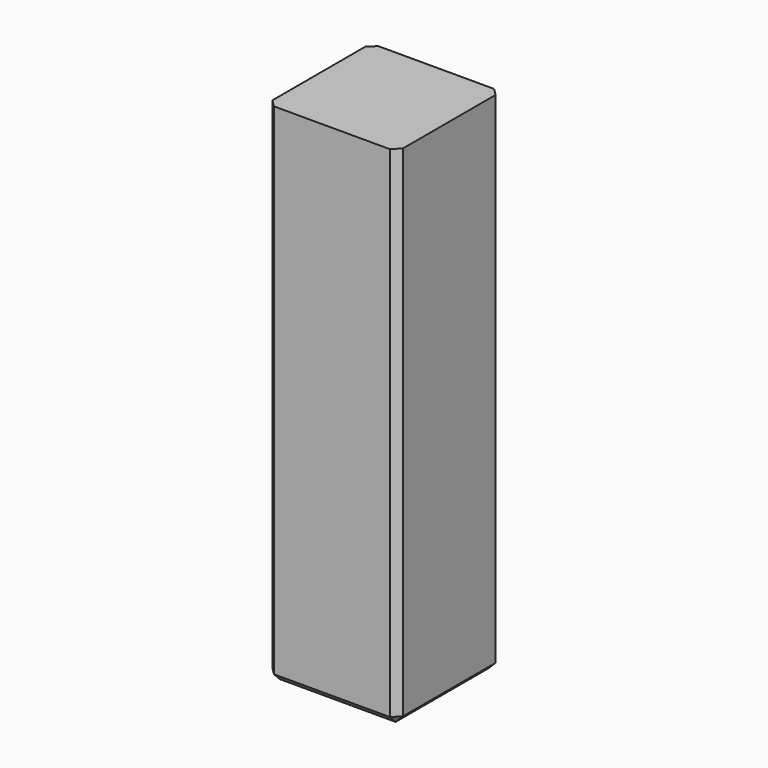
from build123d import *

# Parameters (mm, degrees)
F0_W     = 90
F0_H     = 300
F1_DEPTH = 90
F2_SIZE  = 5
F3_DEPTH = 50


with BuildPart() as f1:
    # F0 (on Front) → F1 (new body)
    with BuildSketch(Plane.XZ):
        with Locations((45, 150)):
            Rectangle(F0_W, F0_H)
    extrude(amount=F1_DEPTH)

    # F2
    f2_edges = [f1.edges().sort_by_distance(p)[0] for p in [
        (90, -90, 150),
        (0, -90, 150),
        (90, 0, 150),
        (0, 0, 150),
        (45, 0, 0),
        (0, -45, 0),
        (45, -90, 0),
        (90, -45, 0),
    ]]
    chamfer(f2_edges, length=F2_SIZE)

    # F1_face (on face) → F3 (join)
    with BuildSketch(Plane(origin=(45, -45, 300), x_dir=(1, 0, 0), z_dir=(0, 0, 1))):
        Polygon((45, -40), (45, 40), (40, 45), (-40, 45), (-45, 40), (-45, -40), (-40, -45), (40, -45), align=None)
    extrude(amount=F3_DEPTH)


solid = f1.part
